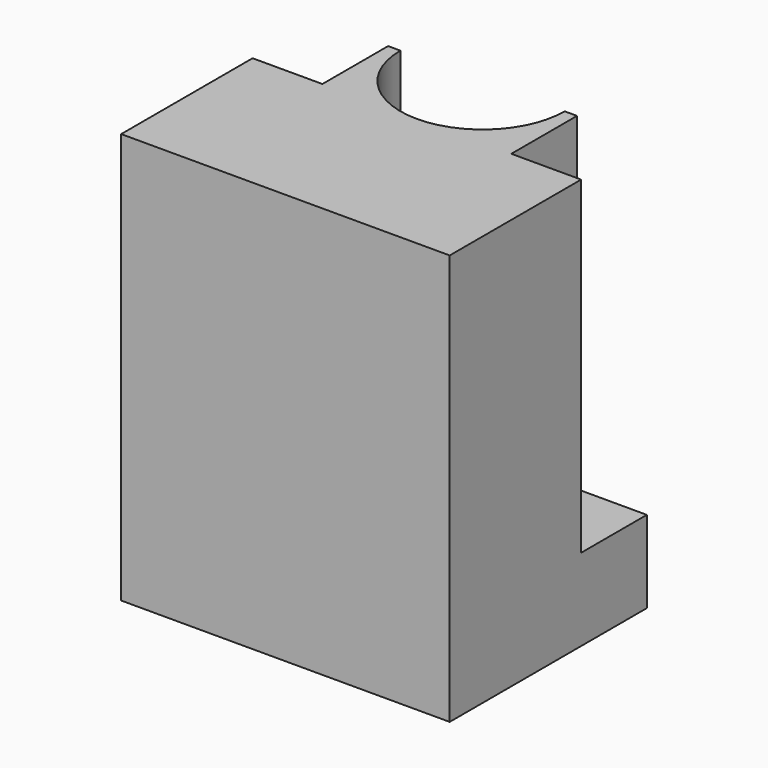
from build123d import *

# Parameters (mm, degrees)
F0_W     = 101.6
F0_H     = 76.2
F1_DEPTH = 127
F3_DEPTH = 127.001
F4_W     = 21.5898367196
F4_H     = 25.4
F5_DEPTH = 101.6


with BuildPart() as f1:
    # F0 (on Top) → F1 (new body)
    with BuildSketch(Plane.XY):
        Rectangle(F0_W, F0_H)
    extrude(amount=F1_DEPTH)

    # F2 (on face) → F3 (cut, through all)
    with BuildSketch(Plane.XY.offset(127)):
        with BuildLine():
            ThreePointArc((-25.4, 38.1), (0, 12.7), (25.4, 38.1))
            Line((25.4, 38.1), (-25.4, 38.1))
        make_face()
    extrude(amount=-F3_DEPTH, mode=Mode.SUBTRACT)

    # F4 (on face) → F5 (cut)
    with BuildSketch(Plane.XY.offset(127)):
        with Locations((-40.0050816402, 25.4)):
            Rectangle(F4_W, F4_H)
        with Locations((40.0050816402, 25.4)):
            Rectangle(F4_W, F4_H)
    extrude(amount=-F5_DEPTH, mode=Mode.SUBTRACT)


solid = f1.part
